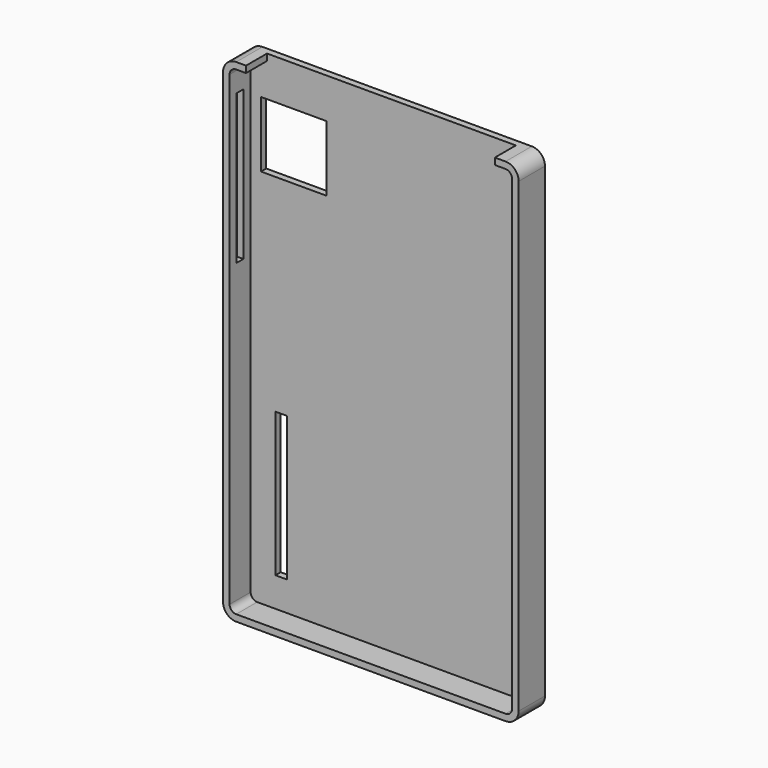
from build123d import *

# Parameters (mm, degrees)
F0_W      = 114.3
F0_H      = 190.5
F1_DEPTH  = 12.7
F2_R      = 5.08
F3_T      = -2.54
F4_W      = 3.936436
F4_H      = 103.5833
F4_W_2    = 25.4
F4_H_2    = 25.4
F5_DEPTH  = 2.541
F6_W      = 3.333682
F6_H      = 57.772115
F7_DEPTH  = 2.541
F8_DEPTH  = 2.541
F9_W      = 96.21381
F9_H      = 10.16
F10_DEPTH = 2.541
F11_W     = 4.455637
F11_H     = 55.695463
F12_DEPTH = 2.541


with BuildPart() as f1:
    # F0 (on Front) → F1 (new body)
    with BuildSketch(Plane.XZ):
        with Locations((6.678557, 11.712478)):
            Rectangle(F0_W, F0_H)
    extrude(amount=F1_DEPTH)

    # F2
    f2_edges = [f1.edges().sort_by_distance(p)[0] for p in [
        (-50.471443, -6.35, 106.962478),
        (-50.471443, -6.35, -83.537522),
        (63.828557, -6.35, -83.537522),
        (63.828557, -6.35, 106.962478),
    ]]
    fillet(f2_edges, radius=F2_R)

    # F3
    f3_openings = [f1.faces().sort_by_distance(p)[0] for p in [
        (6.678557, -12.7, 11.712478),
    ]]
    offset(amount=F3_T, openings=f3_openings)

    # F4 (on face) → F5 (cut, through all)
    with BuildSketch(Plane.XZ.offset(2.54)):
        with Locations((-54.036425, 42.818326)):
            Rectangle(F4_W, F4_H)
        with Locations((-31.234852, 78.72139)):
            Rectangle(F4_W_2, F4_H_2)
    extrude(amount=-F5_DEPTH, mode=Mode.SUBTRACT)

    # F6 (on face) → F7 (cut, through all)
    with BuildSketch(Plane.YZ.offset(-47.931443)):
        with Locations((-7.72619, 65.276027)):
            Rectangle(F6_W, F6_H)
    extrude(amount=-F7_DEPTH, mode=Mode.SUBTRACT)

    # F4 (on face) → F8 (cut, through all)
    with BuildSketch(Plane.XZ.offset(2.54)):
        with Locations((-54.036425, 42.818326)):
            Rectangle(F4_W, F4_H)
        with Locations((-31.234852, 78.72139)):
            Rectangle(F4_W_2, F4_H_2)
    extrude(amount=-F8_DEPTH, mode=Mode.SUBTRACT)

    # F9 (on face) → F10 (cut, through all)
    with BuildSketch(Plane(origin=(0, 0, 104.422478), x_dir=(1, 0, 0), z_dir=(0, 0, -1))):
        with Locations((6.513808, 7.62)):
            Rectangle(F9_W, F9_H)
    extrude(amount=-F10_DEPTH, mode=Mode.SUBTRACT)

    # F11 (on face) → F12 (cut, through all)
    with BuildSketch(Plane.XZ.offset(2.54)):
        with Locations((-36.106074, -41.727004)):
            Rectangle(F11_W, F11_H)
    extrude(amount=-F12_DEPTH, mode=Mode.SUBTRACT)


solid = f1.part
